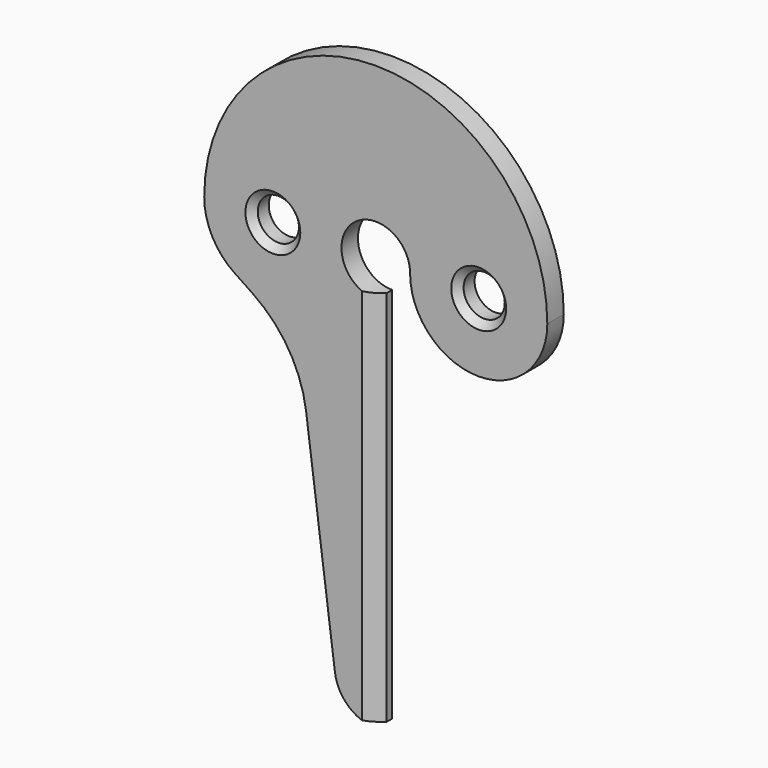
from build123d import *

# Parameters (mm, degrees)
F0_R     = 3
F1_DEPTH = 3
F2_SIZE  = 1
F3_SIZE  = 2


with BuildPart() as f1:
    # F0 (on Front) → F1 (new body)
    with BuildSketch(Plane.XZ):
        with BuildLine():
            ThreePointArc((0, -5), (-3.535534, 3.535534), (5, 0))
            ThreePointArc((5, 0), (15, -10), (25, 0))
            ThreePointArc((25, 0), (0, 25), (-25, 0))
            ThreePointArc((-25, 0), (-23.826115, -4.701031), (-20.580062, -8.298368))
            Line((-20.580062, -8.298368), (-17.955888, -10.062938))
            ThreePointArc((-17.955888, -10.062938), (-12.696811, -15.52306), (-10.152199, -22.664192))
            Line((-10.152199, -22.664192), (-10.126959, -22.857049))
            Line((-10.126959, -22.857049), (-5.949267, -54.778603))
            ThreePointArc((-5.949267, -54.778603), (-3.957801, -58.509524), (0, -60))
            Line((0, -60), (0, -5))
        make_face()
        with Locations((-15, 0)):
            Circle(F0_R, mode=Mode.SUBTRACT)
        with Locations((15, 0)):
            Circle(F0_R, mode=Mode.SUBTRACT)
        with BuildLine():
            ThreePointArc((-10.128077, -22.856554), (-10.127518, -22.856802), (-10.126959, -22.857049))
            Line((-10.126959, -22.857049), (-10.152199, -22.664192))
            ThreePointArc((-10.152199, -22.664192), (-10.139879, -22.760341), (-10.128077, -22.856554))
        make_face()
    extrude(amount=F1_DEPTH)

    # F2
    f2_edges = [f1.edges().sort_by_distance(p)[0] for p in [
        (-18, -3, 0),
        (12, -3, 0),
    ]]
    chamfer(f2_edges, length=F2_SIZE)

    # F3
    f3_edges = [f1.edges().sort_by_distance(p)[0] for p in [
        (0, -3, -32.5),
    ]]
    chamfer(f3_edges, length=F3_SIZE)


solid = f1.part
